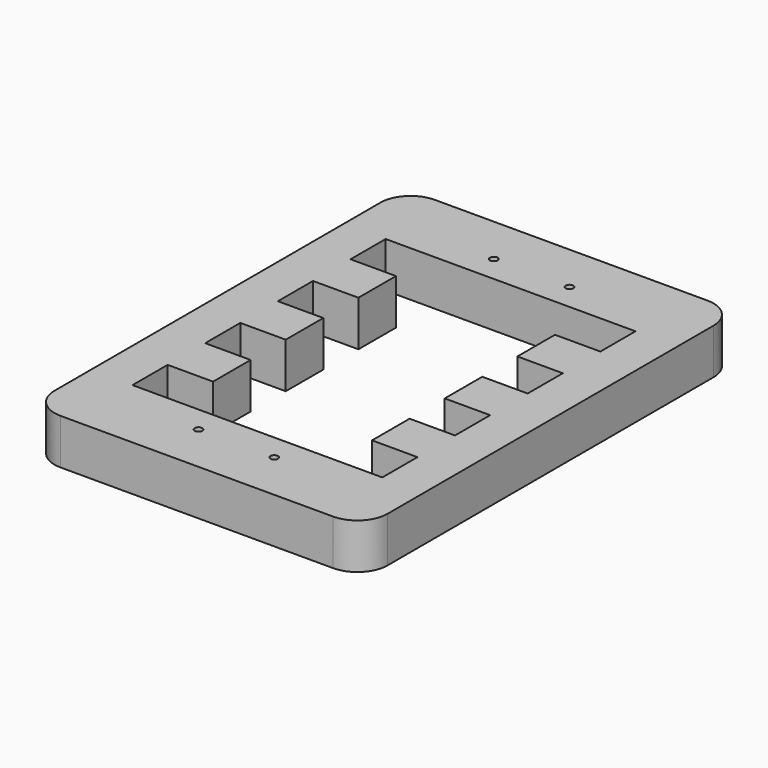
from build123d import *

# Parameters (mm, degrees)
F0_R     = 0.5
F1_DEPTH = 6


with BuildPart() as f1:
    # F0 (on Top) → F1 (new body)
    with BuildSketch(Plane.XY):
        with BuildLine():
            Line((18, 30.9), (-18, 30.9))
            ThreePointArc((-18, 30.9), (-20.828427, 29.728427), (-22, 26.9))
            Line((-22, 26.9), (-22, -26.9))
            ThreePointArc((-22, -26.9), (-20.828427, -29.728427), (-18, -30.9))
            Line((-18, -30.9), (18, -30.9))
            ThreePointArc((18, -30.9), (20.828427, -29.728427), (22, -26.9))
            Line((22, -26.9), (22, 26.9))
            ThreePointArc((22, 26.9), (20.828427, 29.728427), (18, 30.9))
        make_face()
        with Locations((-5, -24.375)):
            Circle(F0_R, mode=Mode.SUBTRACT)
        with Locations((5, -24.375)):
            Circle(F0_R, mode=Mode.SUBTRACT)
        with Locations((-5, 24.375)):
            Circle(F0_R, mode=Mode.SUBTRACT)
        Polygon((-16.5, 20.9), (-10.5, 20.9), (10.5, 20.9), (16.5, 20.9), (16.5, 15.1), (10.5, 15.1), (10.5, 8.9), (16.5, 8.9), (16.5, 3.1), (10.5, 3.1), (10.5, -3.1), (16.5, -3.1), (16.5, -8.9), (10.5, -8.9), (10.5, -15.1), (16.5, -15.1), (16.5, -20.9), (10.5, -20.9), (-10.5, -20.9), (-16.5, -20.9), (-16.5, -15.1), (-10.5, -15.1), (-10.5, -8.9), (-16.5, -8.9), (-16.5, -3.1), (-10.5, -3.1), (-10.5, 3.1), (-16.5, 3.1), (-16.5, 8.9), (-10.5, 8.9), (-10.5, 15.1), (-16.5, 15.1), align=None, mode=Mode.SUBTRACT)
        with Locations((5, 24.375)):
            Circle(F0_R, mode=Mode.SUBTRACT)
    extrude(amount=F1_DEPTH)


solid = f1.part
